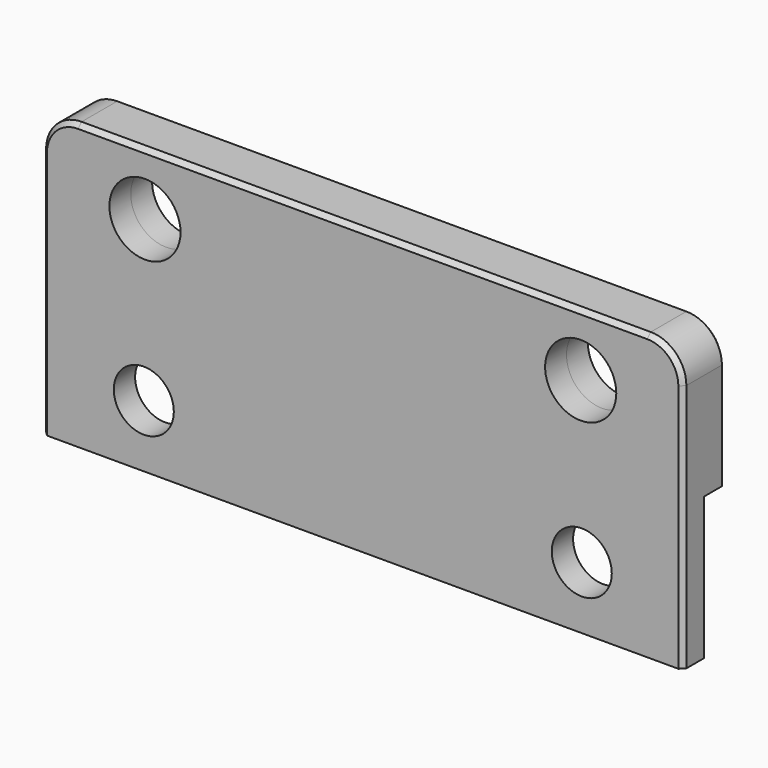
from build123d import *

# Parameters (mm, degrees)
F0_R     = 25.4
F0_W     = 457.2
F0_H     = 101.6
F0_R_2   = 21.43125
F1_DEPTH = 19.05
F2_DEPTH = 19.05
F3_SIZE  = 3.175


with BuildPart() as f1:
    # F0 (on Front) → F1 (new body)
    with BuildSketch(Plane.XZ):
        with BuildLine():
            ThreePointArc((228.6, 76.2), (221.160512, 94.160512), (203.2, 101.6))
            Line((203.2, 101.6), (-203.2, 101.6))
            ThreePointArc((-203.2, 101.6), (-221.160512, 94.160512), (-228.6, 76.2))
            Line((-228.6, 76.2), (-228.6, 0))
            Line((-228.6, 0), (228.6, 0))
            Line((228.6, 0), (228.6, 76.2))
        make_face()
        with Locations((-155.448, 57.15)):
            Circle(F0_R, mode=Mode.SUBTRACT)
        with Locations((155.702, 57.15)):
            Circle(F0_R, mode=Mode.SUBTRACT)
        with Locations((0, -50.8)):
            Rectangle(F0_W, F0_H)
        with Locations((-156.2735, -57.15)):
            Circle(F0_R_2, mode=Mode.SUBTRACT)
        with Locations((156.464, -57.15)):
            Circle(F0_R_2, mode=Mode.SUBTRACT)
    extrude(amount=F1_DEPTH)

    # F0 (on Front) → F2 (join)
    with BuildSketch(Plane.XZ):
        with BuildLine():
            ThreePointArc((228.6, 76.2), (221.160512, 94.160512), (203.2, 101.6))
            Line((203.2, 101.6), (-203.2, 101.6))
            ThreePointArc((-203.2, 101.6), (-221.160512, 94.160512), (-228.6, 76.2))
            Line((-228.6, 76.2), (-228.6, 0))
            Line((-228.6, 0), (228.6, 0))
            Line((228.6, 0), (228.6, 76.2))
        make_face()
        with Locations((-155.448, 57.15)):
            Circle(F0_R, mode=Mode.SUBTRACT)
        with Locations((155.702, 57.15)):
            Circle(F0_R, mode=Mode.SUBTRACT)
    extrude(amount=-F2_DEPTH)

    # F3
    f3_edges = [f1.edges().sort_by_distance(p)[0] for p in [
        (-203.2, 0, 101.6),
        (-228.6, -19.05, -12.7),
        (-228.6, 19.05, 38.1),
    ]]
    chamfer(f3_edges, length=F3_SIZE)


solid = f1.part
